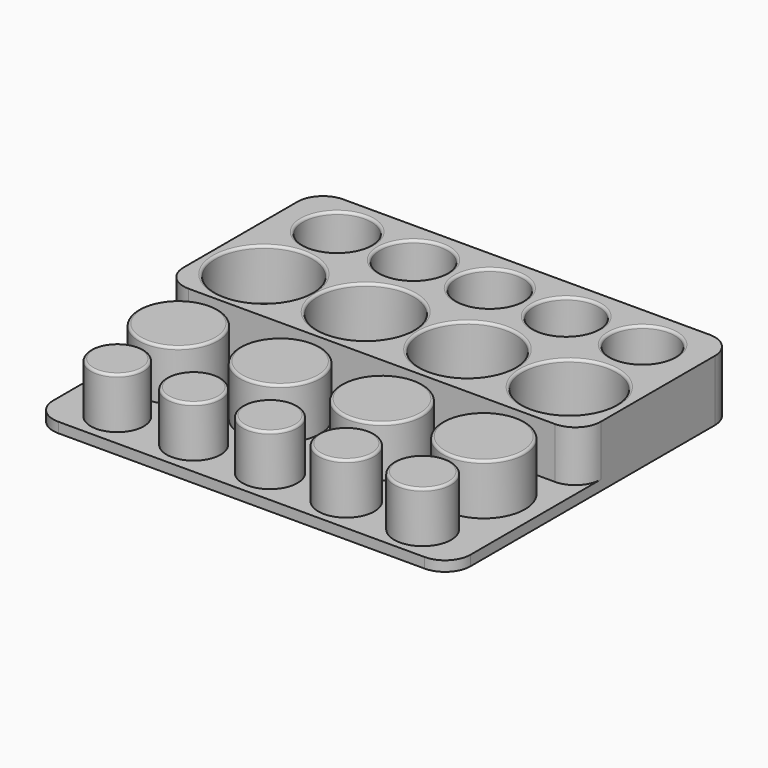
from build123d import *

# Parameters (mm, degrees)
CYLINDER005_R     = 6.6
CYLINDER005_DEPTH = 10
CYLINDER006_R     = 6.5
CYLINDER006_DEPTH = 10
CYLINDER007_R     = 6.4
CYLINDER007_DEPTH = 10
CYLINDER008_R     = 6.3
CYLINDER008_DEPTH = 10
CYLINDER004_R     = 6.7
CYLINDER004_DEPTH = 10
CYLINDER001_R     = 9.4
CYLINDER001_DEPTH = 10
CYLINDER002_R     = 9.3
CYLINDER002_DEPTH = 10
CYLINDER003_R     = 9.2
CYLINDER003_DEPTH = 10
CYLINDER_R        = 9.5
CYLINDER_DEPTH    = 10
BOX_W             = 82
BOX_H             = 70
BOX_DEPTH         = 2
FILLET001_R       = 5
BOX001_W          = 82
BOX001_H          = 38
BOX001_DEPTH      = 10
FILLET_R          = 5
CYLINDER015_R     = 5.3
CYLINDER015_DEPTH = 10
CYLINDER016_R     = 5.4
CYLINDER016_DEPTH = 10
CYLINDER017_R     = 5.5
CYLINDER017_DEPTH = 10
CYLINDER018_R     = 5.6
CYLINDER018_DEPTH = 10
CYLINDER014_R     = 5.2
CYLINDER014_DEPTH = 10
CYLINDER011_R     = 7.9
CYLINDER011_DEPTH = 10
CYLINDER012_R     = 8
CYLINDER012_DEPTH = 10
CYLINDER013_R     = 8.1
CYLINDER013_DEPTH = 10
CYLINDER010_R     = 7.8
CYLINDER010_DEPTH = 10
FILLET002_R       = 0.5


with BuildPart() as outer005:
    # Cylinder005 → Cylinder005 (new body)
    with BuildSketch(Plane(origin=(15, 18, 0), x_dir=(1, 0, 0), z_dir=(0, 0, 1))):
        Circle(CYLINDER005_R)
    extrude(amount=CYLINDER005_DEPTH)


with BuildPart() as outer006:
    # Cylinder006 → Cylinder006 (new body)
    with BuildSketch(Plane(origin=(30, 18, 0), x_dir=(1, 0, 0), z_dir=(0, 0, 1))):
        Circle(CYLINDER006_R)
    extrude(amount=CYLINDER006_DEPTH)


with BuildPart() as outer007:
    # Cylinder007 → Cylinder007 (new body)
    with BuildSketch(Plane(origin=(45, 18, 0), x_dir=(1, 0, 0), z_dir=(0, 0, 1))):
        Circle(CYLINDER007_R)
    extrude(amount=CYLINDER007_DEPTH)


with BuildPart() as outer008:
    # Cylinder008 → Cylinder008 (new body)
    with BuildSketch(Plane(origin=(60, 18, 0), x_dir=(1, 0, 0), z_dir=(0, 0, 1))):
        Circle(CYLINDER008_R)
    extrude(amount=CYLINDER008_DEPTH)


with BuildPart() as obj1:
    # Cylinder004 → Cylinder004 (new body)
    with BuildSketch(Plane(origin=(0, 18, 0), x_dir=(1, 0, 0), z_dir=(0, 0, 1))):
        Circle(CYLINDER004_R)
    extrude(amount=CYLINDER004_DEPTH)

    # Fusion001: union outer005, outer006, outer007, outer008
    add(outer005.part)
    add(outer006.part)
    add(outer007.part)
    add(outer008.part)


with BuildPart() as outer001:
    # Cylinder001 → Cylinder001 (new body)
    with BuildSketch(Plane(origin=(20, 0, 0), x_dir=(1, 0, 0), z_dir=(0, 0, 1))):
        Circle(CYLINDER001_R)
    extrude(amount=CYLINDER001_DEPTH)


with BuildPart() as outer002:
    # Cylinder002 → Cylinder002 (new body)
    with BuildSketch(Plane(origin=(40, 0, 0), x_dir=(1, 0, 0), z_dir=(0, 0, 1))):
        Circle(CYLINDER002_R)
    extrude(amount=CYLINDER002_DEPTH)


with BuildPart() as outer003:
    # Cylinder003 → Cylinder003 (new body)
    with BuildSketch(Plane(origin=(60, 0, 0), x_dir=(1, 0, 0), z_dir=(0, 0, 1))):
        Circle(CYLINDER003_R)
    extrude(amount=CYLINDER003_DEPTH)


with BuildPart() as obj2:
    # Cylinder → Cylinder (new body)
    with BuildSketch(Plane.XY):
        Circle(CYLINDER_R)
    extrude(amount=CYLINDER_DEPTH)

    # Fusion: union outer001, outer002, outer003
    add(outer001.part)
    add(outer002.part)
    add(outer003.part)

    # Fusion002: union obj1
    add(obj1.part)


with BuildPart() as fillet001:
    # Box → Box (new body)
    with BuildSketch(Plane(origin=(-11, -43, -2), x_dir=(1, 0, 0), z_dir=(0, 0, 1))):
        with Locations((41, 35)):
            Rectangle(BOX_W, BOX_H)
    extrude(amount=BOX_DEPTH)

    # Fillet001
    fillet001_edges = [fillet001.edges().sort_by_distance(p)[0] for p in [
        (-11, -43, -1),
        (-11, 27, -1),
        (71, -43, -1),
        (71, 27, -1),
    ]]
    fillet(fillet001_edges, radius=FILLET001_R)


with BuildPart() as cut:
    # Box001 → Box001 (new body)
    with BuildSketch(Plane(origin=(-11, -11, 0), x_dir=(1, 0, 0), z_dir=(0, 0, 1))):
        with Locations((41, 19)):
            Rectangle(BOX001_W, BOX001_H)
    extrude(amount=BOX001_DEPTH)

    # Fillet
    fillet_edges = [cut.edges().sort_by_distance(p)[0] for p in [
        (-11, -11, 5),
        (-11, 27, 5),
        (71, -11, 5),
        (71, 27, 5),
    ]]
    fillet(fillet_edges, radius=FILLET_R)

    # Fusion006: union Fillet001
    add(fillet001.part)

    # Cut: cut obj2
    add(obj2.part, mode=Mode.SUBTRACT)


with BuildPart() as inner005:
    # Cylinder015 → Cylinder015 (new body)
    with BuildSketch(Plane(origin=(15, -36, 0), x_dir=(1, 0, 0), z_dir=(0, 0, 1))):
        Circle(CYLINDER015_R)
    extrude(amount=CYLINDER015_DEPTH)


with BuildPart() as inner006:
    # Cylinder016 → Cylinder016 (new body)
    with BuildSketch(Plane(origin=(30, -36, 0), x_dir=(1, 0, 0), z_dir=(0, 0, 1))):
        Circle(CYLINDER016_R)
    extrude(amount=CYLINDER016_DEPTH)


with BuildPart() as inner007:
    # Cylinder017 → Cylinder017 (new body)
    with BuildSketch(Plane(origin=(45, -36, 0), x_dir=(1, 0, 0), z_dir=(0, 0, 1))):
        Circle(CYLINDER017_R)
    extrude(amount=CYLINDER017_DEPTH)


with BuildPart() as inner008:
    # Cylinder018 → Cylinder018 (new body)
    with BuildSketch(Plane(origin=(60, -36, 0), x_dir=(1, 0, 0), z_dir=(0, 0, 1))):
        Circle(CYLINDER018_R)
    extrude(amount=CYLINDER018_DEPTH)


with BuildPart() as obj3:
    # Cylinder014 → Cylinder014 (new body)
    with BuildSketch(Plane(origin=(0, -36, 0), x_dir=(1, 0, 0), z_dir=(0, 0, 1))):
        Circle(CYLINDER014_R)
    extrude(amount=CYLINDER014_DEPTH)

    # Fusion004: union inner005, inner006, inner007, inner008
    add(inner005.part)
    add(inner006.part)
    add(inner007.part)
    add(inner008.part)


with BuildPart() as inner001:
    # Cylinder011 → Cylinder011 (new body)
    with BuildSketch(Plane(origin=(20, -21, 0), x_dir=(1, 0, 0), z_dir=(0, 0, 1))):
        Circle(CYLINDER011_R)
    extrude(amount=CYLINDER011_DEPTH)


with BuildPart() as inner002:
    # Cylinder012 → Cylinder012 (new body)
    with BuildSketch(Plane(origin=(40, -21, 0), x_dir=(1, 0, 0), z_dir=(0, 0, 1))):
        Circle(CYLINDER012_R)
    extrude(amount=CYLINDER012_DEPTH)


with BuildPart() as inner003:
    # Cylinder013 → Cylinder013 (new body)
    with BuildSketch(Plane(origin=(60, -21, 0), x_dir=(1, 0, 0), z_dir=(0, 0, 1))):
        Circle(CYLINDER013_R)
    extrude(amount=CYLINDER013_DEPTH)


with BuildPart() as rounded_edges:
    # Cylinder010 → Cylinder010 (new body)
    with BuildSketch(Plane(origin=(0, -21, 0), x_dir=(1, 0, 0), z_dir=(0, 0, 1))):
        Circle(CYLINDER010_R)
    extrude(amount=CYLINDER010_DEPTH)

    # Fusion003: union inner001, inner002, inner003
    add(inner001.part)
    add(inner002.part)
    add(inner003.part)

    # Fusion005: union obj3
    add(obj3.part)

    # Fusion007: union Cut
    add(cut.part)

    # Fillet002
    fillet002_edges = [rounded_edges.edges().sort_by_distance(p)[0] for p in [
        (-9.5, 0, 10),
        (10.6, 0, 10),
        (30.7, 0, 10),
        (50.8, 0, 10),
        (-6.7, 18, 10),
        (8.4, 18, 10),
        (23.5, 18, 10),
        (38.6, 18, 10),
        (53.7, 18, 10),
        (-5.2, -36, 10),
        (9.7, -36, 10),
        (24.6, -36, 10),
        (39.5, -36, 10),
        (54.4, -36, 10),
        (-7.8, -21, 10),
        (12.1, -21, 10),
        (32, -21, 10),
        (51.9, -21, 10),
    ]]
    fillet(fillet002_edges, radius=FILLET002_R)


solid = rounded_edges.part
